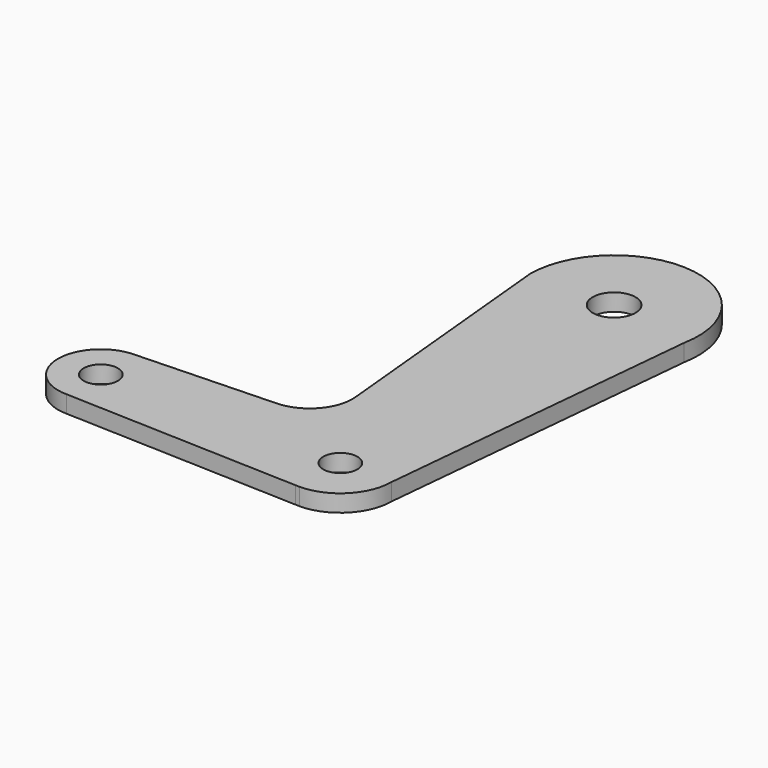
from build123d import *

# Parameters (mm, degrees)
F0_R     = 3.175
F0_R_2   = 3.96875
F1_DEPTH = 3.175


with BuildPart() as f1:
    # F0 (on Top) → F1 (new body)
    with BuildSketch(Plane.XY):
        with BuildLine():
            Line((25.622945, 8.852605), (0, 7.9375))
            ThreePointArc((0, 7.9375), (-7.9375, 0), (0, -7.9375))
            Line((0, -7.9375), (43.77051, -9.500732))
            Line((43.77051, -9.500732), (44.45, -9.525))
            ThreePointArc((44.45, -9.525), (51.185192, -6.735192), (53.975, 0))
            Line((53.975, 0), (59.789694, 60.548824))
            ThreePointArc((59.789694, 60.548824), (45.932277, 79.050514), (28.829, 63.5))
            Line((28.829, 63.5), (29.114297, 60.528157))
            Line((29.114297, 60.528157), (33.240818, 17.543561))
            ThreePointArc((33.240818, 17.543561), (31.308696, 11.553001), (25.622945, 8.852605))
        make_face()
        Circle(F0_R, mode=Mode.SUBTRACT)
        with Locations((44.45, 0)):
            Circle(F0_R, mode=Mode.SUBTRACT)
        with Locations((44.45, 63.5)):
            Circle(F0_R_2, mode=Mode.SUBTRACT)
    extrude(amount=F1_DEPTH)


solid = f1.part
